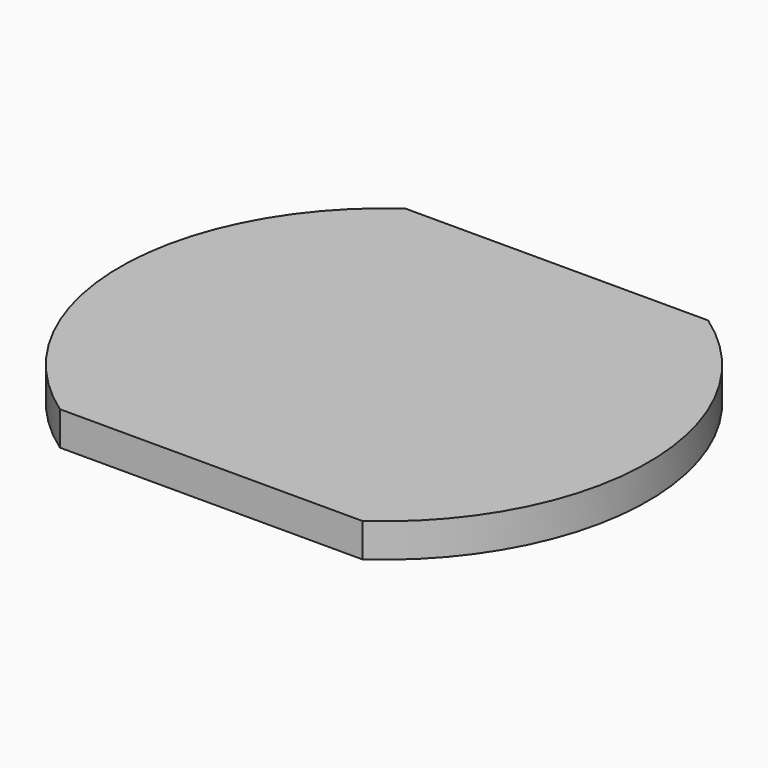
from build123d import *

# Parameters (mm, degrees)
PAD_1_DEPTH = 5


with BuildPart() as part:
    # Sketch_1 → Pad_1 (new body)
    with BuildSketch(Plane.XY):
        with BuildLine():
            ThreePointArc((22.43194, -39.01035), (39.047739, -6.94496), (22.262883, 25.032261))
            Line((22.262883, 25.032261), (-22.45071, 25.032261))
            ThreePointArc((-22.45071, 25.032261), (-39.05278, -7.038011), (-22.262883, -39.01035))
            Line((-22.262883, -39.01035), (22.43194, -39.01035))
        make_face()
    extrude(amount=PAD_1_DEPTH)


solid = part.part
